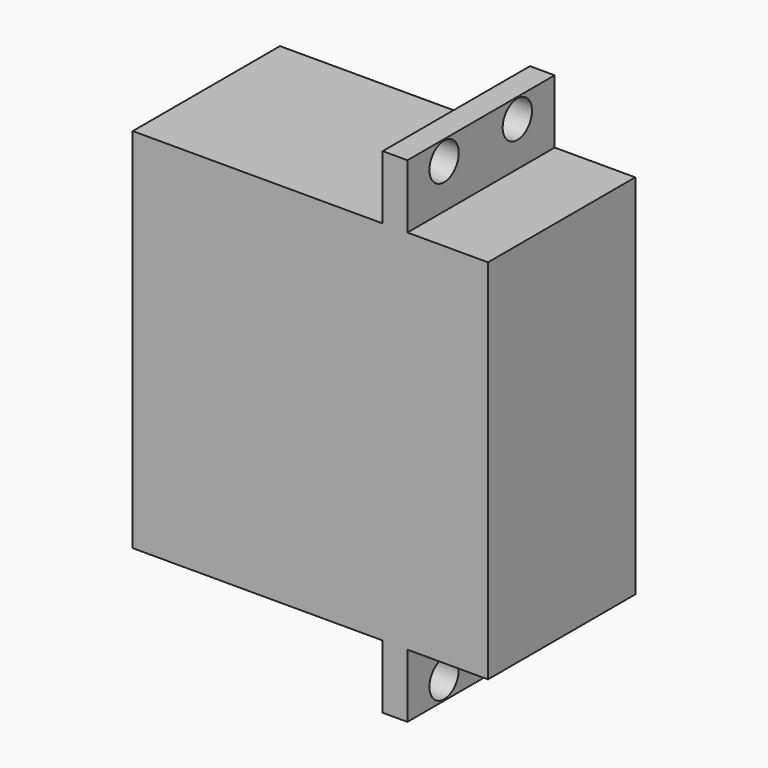
from build123d import *

# Parameters (mm, degrees)
CYLINDER170_R          = 2
CYLINDER170_DEPTH      = 20
CYLINDER169_R          = 2
CYLINDER169_DEPTH      = 20
CYLINDER167_R          = 2
CYLINDER167_DEPTH      = 20
CYLINDER168_R          = 2
CYLINDER168_DEPTH      = 20
BOX225_W               = 2.7
BOX225_H               = 54
BOX225_DEPTH           = 20.1
BOX226_W               = 38.8
BOX226_H               = 40.1
BOX226_DEPTH           = 20.1
CUT123_PLACEMENT_ANGLE = 90


with BuildPart() as cylinder170:
    # Cylinder170 → Cylinder170 (new body)
    with BuildSketch(Plane(origin=(9.4, -71.8, 5), x_dir=(0, 0, -1), z_dir=(1, 0, 0))):
        Circle(CYLINDER170_R)
    extrude(amount=CYLINDER170_DEPTH)


with BuildPart() as cylinder169:
    # Cylinder169 → Cylinder169 (new body)
    with BuildSketch(Plane(origin=(9.4, -71.8, 15), x_dir=(0, 0, -1), z_dir=(1, 0, 0))):
        Circle(CYLINDER169_R)
    extrude(amount=CYLINDER169_DEPTH)


with BuildPart() as cylinder167:
    # Cylinder167 → Cylinder167 (new body)
    with BuildSketch(Plane(origin=(9.4, -22.1, 5), x_dir=(0, 0, -1), z_dir=(1, 0, 0))):
        Circle(CYLINDER167_R)
    extrude(amount=CYLINDER167_DEPTH)


with BuildPart() as cylinder168:
    # Cylinder168 → Cylinder168 (new body)
    with BuildSketch(Plane(origin=(9.4, -22.1, 15), x_dir=(0, 0, -1), z_dir=(1, 0, 0))):
        Circle(CYLINDER168_R)
    extrude(amount=CYLINDER168_DEPTH)


with BuildPart() as box225:
    # Box225 → Box225 (new body)
    with BuildSketch(Plane(origin=(109.3, -99.95, 0), x_dir=(1, 0, 0), z_dir=(0, 0, 1))):
        with Locations((1.35, 27)):
            Rectangle(BOX225_W, BOX225_H)
    extrude(amount=BOX225_DEPTH)


with BuildPart() as cut123:
    # Box226 → Box226 (new body)
    with BuildSketch(Plane(origin=(82, -93, 0), x_dir=(1, 0, 0), z_dir=(0, 0, 1))):
        with Locations((19.4, 20.05)):
            Rectangle(BOX226_W, BOX226_H)
    extrude(amount=BOX226_DEPTH)

    # Fusion086: union Box225
    add(box225.part)


with BuildPart() as cut123_1:
    # Fusion086 placement: moved
    add(cut123.part.moved(Location((-82.6, 26, 0))))

    # Cut120: cut Cylinder168
    add(cylinder168.part, mode=Mode.SUBTRACT)

    # Cut121: cut Cylinder167
    add(cylinder167.part, mode=Mode.SUBTRACT)

    # Cut122: cut Cylinder169
    add(cylinder169.part, mode=Mode.SUBTRACT)

    # Cut123: cut Cylinder170
    add(cylinder170.part, mode=Mode.SUBTRACT)


with BuildPart() as cut123_2:
    # Cut123 placement: moved
    add(cut123_1.part.moved(Location((-4.2, -98.1, -26.9))).rotate(Axis((-4.2, -98.1, -26.9), (-1, 0, 0)), CUT123_PLACEMENT_ANGLE))


solid = cut123_2.part
